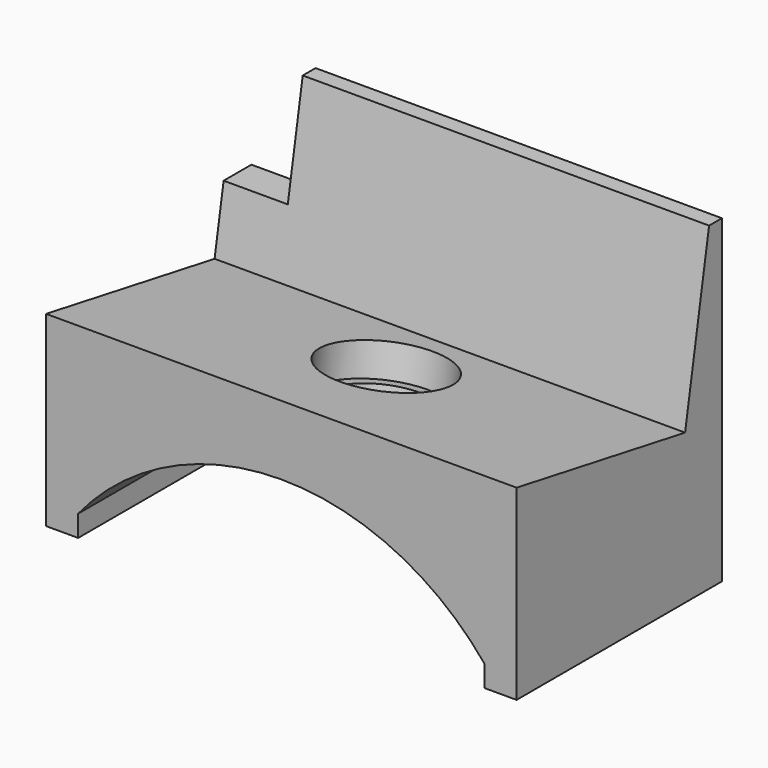
from build123d import *

# Parameters (mm, degrees)
F1_DEPTH  = 12
F3_DEPTH  = 22.001
F5_DEPTH  = 3
F6_W      = 1.5
F6_H      = 12
F7_DEPTH  = 1
F8_W      = 1.5
F8_H      = 12
F9_DEPTH  = 1
F10_R     = 2.75
F11_DEPTH = 1.5
F12_R     = 2.25
F13_DEPTH = 25


with BuildPart() as f1:
    # F0 (on Front) → F1 (new body)
    with BuildSketch(Plane.XZ):
        with BuildLine():
            ThreePointArc((-9.5, 6.1146484713), (0, 10.6146484713), (9.5, 6.1146484713))
            Line((9.5, 6.1146484713), (11, 6.1146484713))
            Line((11, 6.1146484713), (11, 21.1146484713))
            Line((11, 21.1146484713), (-11, 21.1146484713))
            Line((-11, 21.1146484713), (-11, 6.1146484713))
            Line((-11, 6.1146484713), (-9.5, 6.1146484713))
        make_face()
    extrude(amount=F1_DEPTH)

    # F2 (on face) → F3 (cut, through all)
    with BuildSketch(Plane.YZ.offset(11)):
        Polygon((-12, 21.1146484713), (-12, 13.851130248), (-2.1519224699, 12.1146484713), (-0.75, 20.0653458872), (0, 20.0653458872), (0, 21.1146484713), align=None)
    extrude(amount=-F3_DEPTH, mode=Mode.SUBTRACT)

    # F4 (on face) → F5 (cut)
    with BuildSketch(Plane(origin=(-11, 0, 0), x_dir=(0, -1, 0), z_dir=(-1, 0, 0))):
        Polygon((0.75, 20.0653458872), (0, 20.0653458872), (0, 15.1146484713), (1.6229415278, 15.1146484713), align=None)
    extrude(amount=-F5_DEPTH, mode=Mode.SUBTRACT)

    # F6 (on face) → F7 (join)
    with BuildSketch(Plane(origin=(0, 0, 6.1146484713), x_dir=(1, 0, 0), z_dir=(0, 0, -1))):
        with Locations((-10.25, 6)):
            Rectangle(F6_W, F6_H)
    extrude(amount=F7_DEPTH)

    # F8 (on face) → F9 (join)
    with BuildSketch(Plane(origin=(0, 0, 6.1146484713), x_dir=(1, 0, 0), z_dir=(0, 0, -1))):
        with Locations((10.25, 6)):
            Rectangle(F8_W, F8_H)
    extrude(amount=F9_DEPTH)

    # F10 (on face) → F11 (cut)
    with BuildSketch(Plane(origin=(0, 2.006838501, 11.3813467058), x_dir=(1, 0, 0), z_dir=(0, 0.1736481777, 0.984807753))):
        with Locations((0, -8)):
            Circle(F10_R)
    extrude(amount=-F11_DEPTH, mode=Mode.SUBTRACT)

    # F12 (on face) → F13 (cut)
    with BuildSketch(Plane(origin=(0, 1.7463662345, 9.9041350763), x_dir=(1, 0, 0), z_dir=(0, 0.1736481777, 0.984807753))):
        with Locations((0, -8)):
            Circle(F12_R)
    extrude(amount=-F13_DEPTH, mode=Mode.SUBTRACT)


solid = f1.part
